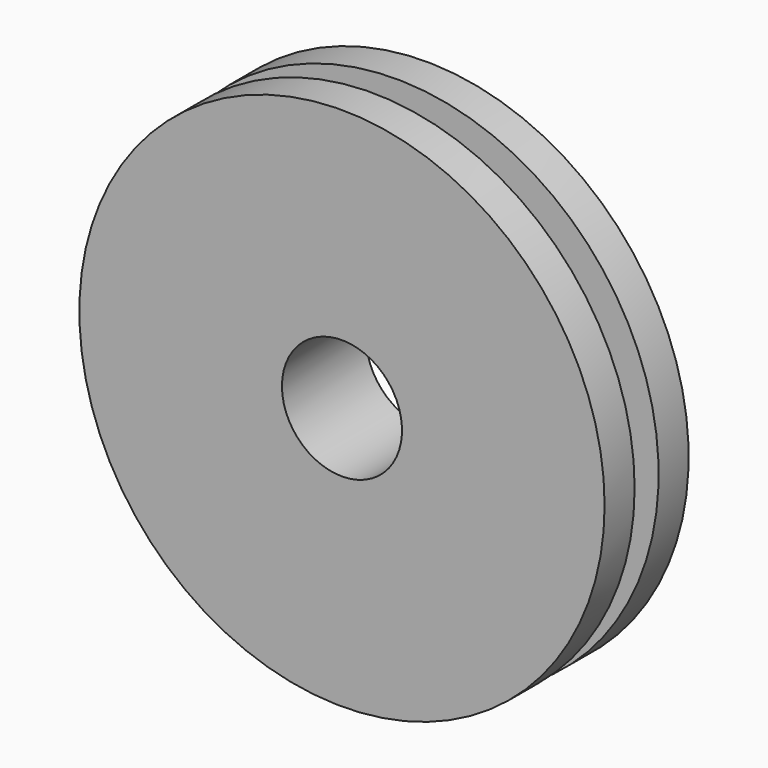
from build123d import *

# Parameters (mm, degrees)
F0_R     = 15
F1_DEPTH = 2
F2_R     = 17.5
F3_DEPTH = 2.5
F4_R     = 17.5
F5_DEPTH = 2.5
F7_D     = 8


with BuildPart() as f1:
    # F0 (on Front) → F1 (new body)
    with BuildSketch(Plane.XZ):
        Circle(F0_R)
        with BuildLine():
            Line((-3, -3), (-3, -12.134661))
            ThreePointArc((-3, -12.134661), (-8.838835, -8.838835), (-12.134661, -3))
            Line((-12.134661, -3), (-3, -3))
        make_face(mode=Mode.SUBTRACT)
        with BuildLine():
            Line((3, -12.134661), (3, -3))
            Line((3, -3), (12.134661, -3))
            ThreePointArc((12.134661, -3), (8.838835, -8.838835), (3, -12.134661))
        make_face(mode=Mode.SUBTRACT)
        with BuildLine():
            ThreePointArc((-12.134661, 3), (-8.838835, 8.838835), (-3, 12.134661))
            Line((-3, 12.134661), (-3, 3))
            Line((-3, 3), (-12.134661, 3))
        make_face(mode=Mode.SUBTRACT)
        with BuildLine():
            Line((12.134661, 3), (3, 3))
            Line((3, 3), (3, 12.134661))
            ThreePointArc((3, 12.134661), (8.838835, 8.838835), (12.134661, 3))
        make_face(mode=Mode.SUBTRACT)
    extrude(amount=F1_DEPTH)

    # F2 (on face) → F3 (join)
    with BuildSketch(Plane(origin=(0, 0, 0), x_dir=(-1, 0, 0), z_dir=(0, 1, 0))):
        Circle(F2_R)
    extrude(amount=F3_DEPTH)

    # F4 (on face) → F5 (join)
    with BuildSketch(Plane.XZ.offset(2)):
        Circle(F4_R)
    extrude(amount=F5_DEPTH)

    # F7 (through all)
    with Locations(Plane.XZ.offset(4.5)):
        with Locations((0, 0)):
            Hole(F7_D / 2)


solid = f1.part
